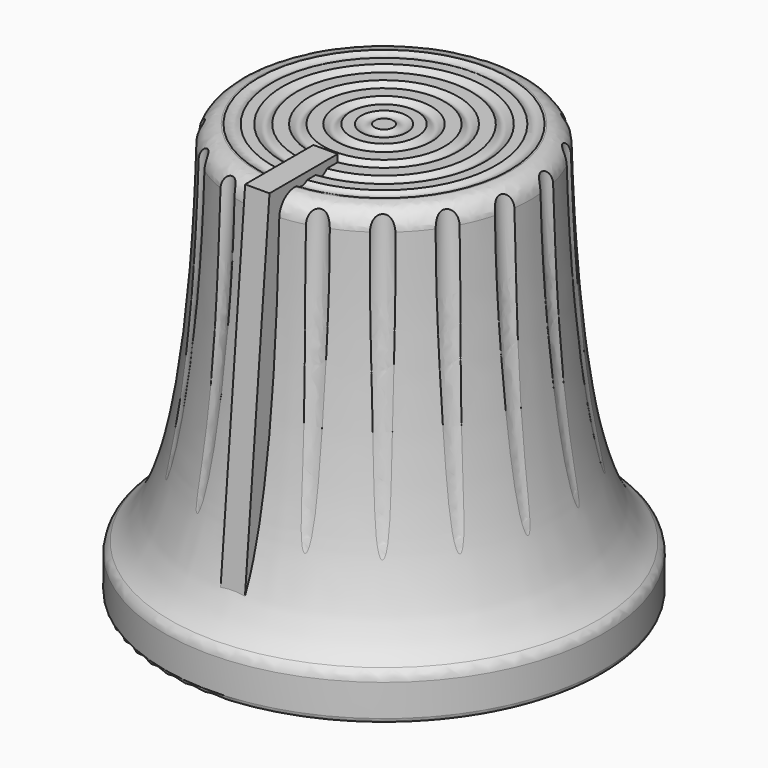
from build123d import *

# Parameters (mm, degrees)
FILLET_R              = 0.8
FILLET001_R           = 0.5
FILLET002_R           = 0.2
POLARPATTERN_COUNT    = 9
POLARPATTERN_ANGLE    = 162
POLARPATTERN001_COUNT = 9
POLARPATTERN001_ANGLE = 162
PAD002_DEPTH          = 15.2
PAD003_DEPTH          = 14.4
PAD004_DEPTH          = 0.4
POLARPATTERN002_COUNT = 7
FILLET003_R           = 0.2
PAD001_DEPTH          = 0.5


with BuildPart() as obj1:
    # Sketch → Revolution (revolve)
    with BuildSketch(Plane.XZ):
        with BuildLine():
            Line((-9, 11.8), (-9, 13.6))
            add(Edge.make_bspline(
                [(-6, 28.8), (-6.3, 14.8), (-9, 13.6)],
                knots=[0, 0, 0, 1, 1, 1], degree=2))
            Line((-6, 28.8), (0, 28.8))
            Line((0, 28.8), (0, 27.4))
            Line((0, 27.4), (-4.6, 27.4))
            add(Edge.make_bspline(
                [(-4.6, 27.4), (-5.087, 14.851), (-7.5, 13.2)],
                knots=[0, 0, 0, 1, 1, 1], degree=2))
            Line((-7.5, 13.2), (-7.5, 11.8))
            Line((-7.5, 11.8), (-9, 11.8))
        make_face()
    revolve(axis=Axis((0, 0, 0), (0, 0, 1)))

    # Fillet
    fillet_edges = [obj1.edges().sort_by_distance(p)[0] for p in [
        (6, 0, 28.8),
    ]]
    fillet(fillet_edges, radius=FILLET_R)

    # Fillet001
    fillet001_edges = [obj1.edges().sort_by_distance(p)[0] for p in [
        (9, 0, 13.6),
    ]]
    fillet(fillet001_edges, radius=FILLET001_R)

    # Fillet002
    fillet002_edges = [obj1.edges().sort_by_distance(p)[0] for p in [
        (9, 0, 11.8),
    ]]
    fillet(fillet002_edges, radius=FILLET002_R)

    # Sketch003 (on DatumPlane) → Groove (revolve, cut)
    with BuildSketch(Plane(origin=(0, 10.2, 0), x_dir=(0, 0.990748, 0.135716), z_dir=(1, 0, 0))):
        with BuildLine():
            Line((-0.45, 29.4), (0, 29.4))
            Line((0, 29.4), (0, 15.6))
            add(Edge.make_bspline(
                [(-0.45, 29.4), (-1.6, 16), (0, 15.6)],
                knots=[0, 0, 0, 1, 1, 1], degree=2))
        make_face()
    groove = revolve(axis=Axis((0, 10.2, 0), (0, -0.135716, 0.990748)), mode=Mode.SUBTRACT)

    # PolarPattern: Groove ×9 about axis
    polarpattern_axis = Axis((0, 0, 0), (0, 0, 1))
    for i in range(1, POLARPATTERN_COUNT):
        add(groove.rotate(polarpattern_axis, i * POLARPATTERN_ANGLE / (POLARPATTERN_COUNT - 1)), mode=Mode.SUBTRACT)

    # PolarPattern001: Groove ×9 about axis
    polarpattern001_axis = Axis((0, 0, 0), (0, 0, -1))
    for i in range(1, POLARPATTERN001_COUNT):
        add(groove.rotate(polarpattern001_axis, i * POLARPATTERN001_ANGLE / (POLARPATTERN001_COUNT - 1)), mode=Mode.SUBTRACT)

    # Sketch004 (on Face4 of Revolution) → Pad002 (new body)
    with BuildSketch(Plane(origin=(0, 0, 27.4), x_dir=(1, 0, 0), z_dir=(0, 0, -1))):
        with BuildLine():
            ThreePointArc((-0.5, 3.993823), (-4.025, 0), (-0.5, -3.993823))
            Line((-0.5, -2.983392), (-0.5, -3.993823))
            ThreePointArc((-0.5, 2.983392), (-3.025, 0), (-0.5, -2.983392))
            Line((-0.5, 3.993823), (-0.5, 2.983392))
        make_face()
        with BuildLine():
            ThreePointArc((0.5, -3.993823), (4.025, 0), (0.5, 3.993823))
            Line((0.5, 3.993823), (0.5, 2.983392))
            ThreePointArc((0.5, -2.983392), (3.025, 0), (0.5, 2.983392))
            Line((0.5, -2.983392), (0.5, -3.993823))
        make_face()
    extrude(amount=PAD002_DEPTH)

    # Sketch005 (on Face44 of Pad002) → Pad003 (join)
    with BuildSketch(Plane(origin=(0, 0, 27.4), x_dir=(1, 0, 0), z_dir=(0, 0, -1))):
        with BuildLine():
            ThreePointArc((-2.626904, -1.5), (-1.730461, -2.481155), (-0.5, -2.983392))
            Line((-0.5, -2.983392), (-0.5, -3.993823))
            ThreePointArc((-0.5, -3.993823), (0, -4.025), (0.5, -3.993823))
            Line((0.5, -2.983392), (0.5, -3.993823))
            ThreePointArc((0.5, -2.983392), (1.730461, -2.481155), (2.626904, -1.5))
            Line((-2.626904, -1.5), (2.626904, -1.5))
        make_face()
    extrude(amount=PAD003_DEPTH)

    # Sketch006 → Pad004 (join, symmetric)
    with BuildSketch(Plane.YZ):
        Polygon((7.3, 13.7), (3.5, 13.7), (3.5, 27.7), (4.9, 27.7), (5.407772, 21.89614), align=None)
    pad004 = extrude(amount=PAD004_DEPTH, both=True)

    # PolarPattern002: Pad004 ×7 about axis
    polarpattern002_axis = Axis((0, 0, 0), (0, 0, 1))
    for i in range(1, POLARPATTERN002_COUNT):
        add(pad004.rotate(polarpattern002_axis, i * 360 / POLARPATTERN002_COUNT))

    # Fillet003
    fillet003_edges = [obj1.edges().sort_by_distance(p)[0] for p in [
        (-3.740718, 3.494742, 20.400612),
        (-2.881898, 2.809856, 20.55),
        (-4.239509, 2.869277, 20.400612),
        (-3.38069, 2.184391, 20.55),
        (-5.064599, -0.745675, 20.400612),
        (-3.993668, -0.501242, 20.55),
        (-4.886582, -1.525617, 20.400612),
        (-3.815651, -1.281184, 20.55),
        (-2.098124, -3.434894, 20.55),
        (-2.574734, -4.424583, 20.400612),
        (-1.853958, -4.77169, 20.400612),
        (-1.377349, -3.782001, 20.55),
        (1.377349, -3.782001, 20.55),
        (1.853958, -4.77169, 20.400612),
        (2.098124, -3.434894, 20.55),
        (2.574734, -4.424583, 20.400612),
        (3.032264, -6.296562, 13.7),
        (3.815651, -1.281184, 20.55),
        (4.886582, -1.525617, 20.400612),
        (6.813436, -1.555122, 13.7),
        (3.993668, -0.501242, 20.55),
        (3.924085, -0.895647, 13.7),
        (1.746382, -3.6264, 13.7),
        (3.38069, 2.184391, 20.55),
        (4.239509, 2.869277, 20.400612),
        (5.463952, 4.357356, 13.7),
        (3.740718, 3.494742, 20.400612),
        (3.146872, 2.509546, 13.7),
        (2.881898, 2.809856, 20.55),
        (-6.813436, -1.555122, 13.7),
        (-3.032264, -6.296562, 13.7),
        (-1.746382, -3.6264, 13.7),
        (-3.924085, -0.895647, 13.7),
        (5.064599, -0.745675, 20.400612),
        (-3.146872, 2.509546, 13.7),
        (-5.463952, 4.357356, 13.7),
        (0.4, 5.103547, 20.400612),
        (-0.4, 5.103547, 20.400612),
        (0, 6.988657, 13.7),
    ]]
    fillet(fillet003_edges, radius=FILLET003_R)

    # Sketch008 → Groove001 (revolve, cut)
    with BuildSketch(Plane.XZ):
        with BuildLine():
            Line((0, 29.3), (0, 29.8))
            Line((0, 29.8), (-5.6, 29.8))
            Line((-5.6, 29.8), (-5.6, 29.3))
            add(Edge.make_bspline(
                [(-5.6, 29.3), (-4.8825, 28.3), (-4.48, 29.3), (-3.8075, 28.3), (-3.36, 29.3), (-2.7325, 28.3), (-2.24, 29.3), (-1.6575, 28.3), (-1.12, 29.3), (-0.5825, 28.3), (0, 29.3)],
                knots=[0, 0, 0, 0, 0.125, 0.25, 0.375, 0.5, 0.625, 0.75, 0.875, 1, 1, 1, 1], degree=3))
        make_face()
    revolve(axis=Axis((0, 0, 0), (0, 0, 1)), mode=Mode.SUBTRACT)


with BuildPart() as fusion:
    # Sketch002 → Pad001 (new body, symmetric)
    with BuildSketch(Plane.YZ):
        Polygon((-3, 29.1), (-6.5, 29.1), (-7.8, 14.6), (-6.5, 14.6), (-4.2, 24.5), (-3, 27.6), align=None)
    extrude(amount=PAD001_DEPTH, both=True)

    # Fusion: union obj1
    add(obj1.part)


solid = fusion.part
